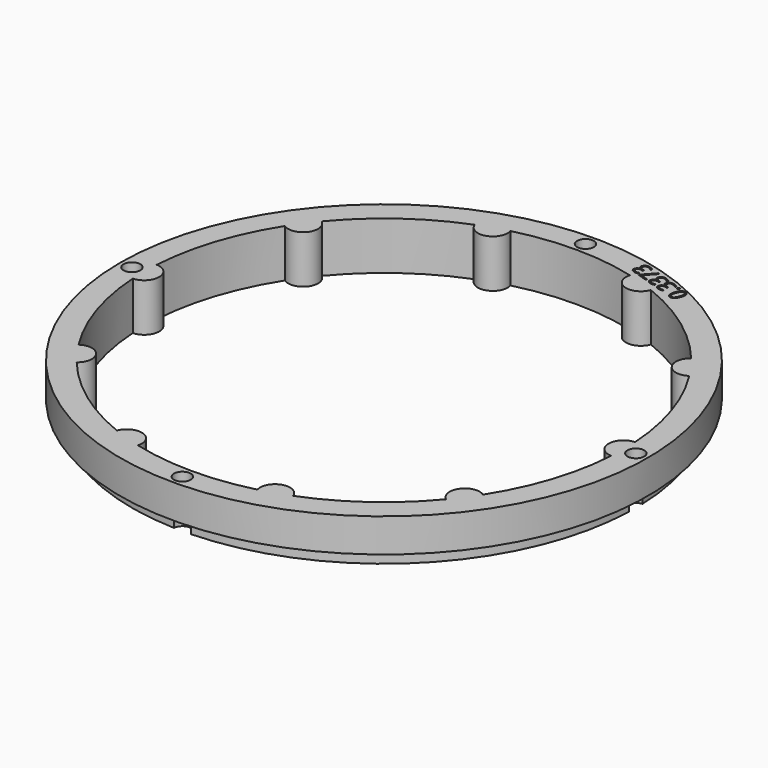
from build123d import *

# Parameters (mm, degrees)
SKETCH118_R             = 55
PAD043_DEPTH            = 10
POLARPATTERN013_COUNT   = 10
SKETCH119_R             = 55
SKETCH119_R_2           = 52.5
POCKET063_DEPTH         = 3
SKETCH120_R             = 1.75
POCKET064_DEPTH         = 321.770146
POCKET064_DEPTH_BACK    = 311.770146
POLARPATTERN014_COUNT   = 4
POCKET071_DEPTH         = 2
BODY007_ROLL_ANGLE      = 90
BODY007_PLACEMENT_ANGLE = -180


with BuildPart() as part:
    # Sketch118 → Pad043 (new body)
    with BuildSketch(Plane.XZ):
        Circle(SKETCH118_R)
        with BuildLine():
            ThreePointArc((49.898009, 3.191978), (-49.999936, -0.080147), (49.907985, -3.031995))
            ThreePointArc((49.898009, 3.191978), (46.88644, 0.075156), (49.907985, -3.031995))
        make_face(mode=Mode.SUBTRACT)
    pad043 = extrude(amount=PAD043_DEPTH)

    # PolarPattern013: Pad043 ×10 about axis
    polarpattern013_axis = Axis((0, 0, 0), (0, -1, 0))
    for i in range(1, POLARPATTERN013_COUNT):
        add(pad043.rotate(polarpattern013_axis, i * 360 / POLARPATTERN013_COUNT))

    # Sketch119 (on DatumPlane) → Pocket063 (cut)
    with BuildSketch(Plane.XZ.offset(10)):
        Circle(SKETCH119_R)
        Circle(SKETCH119_R_2, mode=Mode.SUBTRACT)
    extrude(amount=-POCKET063_DEPTH, mode=Mode.SUBTRACT)

    # Sketch120 (on DatumPlane) → Pocket064 (cut, two sides)
    with BuildSketch(Plane.XZ.offset(10)) as pocket064_sk:
        with Locations((52.5, 0)):
            Circle(SKETCH120_R)
    pocket064 = extrude(amount=-POCKET064_DEPTH, mode=Mode.SUBTRACT) + extrude(pocket064_sk.sketch, amount=POCKET064_DEPTH_BACK, mode=Mode.SUBTRACT)

    # PolarPattern014: Pocket064 ×4 about axis
    polarpattern014_axis = Axis((0, -10, 0), (0, -1, 0))
    for i in range(1, POLARPATTERN014_COUNT):
        add(pocket064.rotate(polarpattern014_axis, i * 360 / POLARPATTERN014_COUNT), mode=Mode.SUBTRACT)

    # Sketch133 (on Face2 of PolarPattern014) → Pocket071 (cut)
    with BuildSketch(Plane(origin=(0, 0, 0), x_dir=(1, 0, 0), z_dir=(0, 1, 0))):
        with BuildLine():
            add(Edge.make_bspline(
                [(-21.9481, -48.248), (-22.0611, -48.5958), (-22.2027, -48.8523)],
                knots=[0, 0, 0, 1, 1, 1], degree=2))
            add(Edge.make_bspline(
                [(-22.2027, -48.8523), (-22.3442, -49.1087), (-22.5189, -49.2616)],
                knots=[0, 0, 0, 1, 1, 1], degree=2))
            add(Edge.make_bspline(
                [(-22.5189, -49.2616), (-22.6935, -49.4143), (-22.9049, -49.4547)],
                knots=[0, 0, 0, 1, 1, 1], degree=2))
            add(Edge.make_bspline(
                [(-22.9049, -49.4547), (-23.1163, -49.4951), (-23.3678, -49.4134)],
                knots=[0, 0, 0, 1, 1, 1], degree=2))
            add(Edge.make_bspline(
                [(-23.3678, -49.4134), (-23.6856, -49.3101), (-23.8368, -49.0687)],
                knots=[0, 0, 0, 1, 1, 1], degree=2))
            add(Edge.make_bspline(
                [(-23.8368, -49.0687), (-23.9879, -48.8274), (-23.9833, -48.4649)],
                knots=[0, 0, 0, 1, 1, 1], degree=2))
            add(Edge.make_bspline(
                [(-23.9833, -48.4649), (-23.9787, -48.1024), (-23.8275, -47.6374)],
                knots=[0, 0, 0, 1, 1, 1], degree=2))
            add(Edge.make_bspline(
                [(-23.8275, -47.6374), (-23.679, -47.1803), (-23.4795, -46.8811)],
                knots=[0, 0, 0, 1, 1, 1], degree=2))
            add(Edge.make_bspline(
                [(-23.4795, -46.8811), (-23.2799, -46.582), (-23.0158, -46.4724)],
                knots=[0, 0, 0, 1, 1, 1], degree=2))
            add(Edge.make_bspline(
                [(-23.0158, -46.4724), (-22.7516, -46.3626), (-22.4124, -46.4728)],
                knots=[0, 0, 0, 1, 1, 1], degree=2))
            add(Edge.make_bspline(
                [(-22.4124, -46.4728), (-22.0907, -46.5774), (-21.939, -46.8201)],
                knots=[0, 0, 0, 1, 1, 1], degree=2))
            add(Edge.make_bspline(
                [(-21.939, -46.8201), (-21.7872, -47.0627), (-21.7928, -47.4248)],
                knots=[0, 0, 0, 1, 1, 1], degree=2))
            add(Edge.make_bspline(
                [(-21.7928, -47.4248), (-21.7983, -47.787), (-21.9481, -48.248)],
                knots=[0, 0, 0, 1, 1, 1], degree=2))
        make_face()
        with BuildLine():
            add(Edge.make_bspline(
                [(-23.502, -47.7432), (-23.6316, -48.142), (-23.6575, -48.4276)],
                knots=[0, 0, 0, 1, 1, 1], degree=2))
            add(Edge.make_bspline(
                [(-23.6575, -48.4276), (-23.6835, -48.713), (-23.5909, -48.889)],
                knots=[0, 0, 0, 1, 1, 1], degree=2))
            add(Edge.make_bspline(
                [(-23.5909, -48.889), (-23.4982, -49.0649), (-23.2779, -49.1365)],
                knots=[0, 0, 0, 1, 1, 1], degree=2))
            add(Edge.make_bspline(
                [(-23.2779, -49.1365), (-23.0576, -49.2081), (-22.8796, -49.1212)],
                knots=[0, 0, 0, 1, 1, 1], degree=2))
            add(Edge.make_bspline(
                [(-22.8796, -49.1212), (-22.7015, -49.0343), (-22.5538, -48.7884)],
                knots=[0, 0, 0, 1, 1, 1], degree=2))
            add(Edge.make_bspline(
                [(-22.5538, -48.7884), (-22.4059, -48.5424), (-22.2757, -48.1416)],
                knots=[0, 0, 0, 1, 1, 1], degree=2))
            add(Edge.make_bspline(
                [(-22.2757, -48.1416), (-22.148, -47.7487), (-22.1224, -47.4643)],
                knots=[0, 0, 0, 1, 1, 1], degree=2))
            add(Edge.make_bspline(
                [(-22.1224, -47.4643), (-22.0968, -47.1798), (-22.1878, -47.0022)],
                knots=[0, 0, 0, 1, 1, 1], degree=2))
            add(Edge.make_bspline(
                [(-22.1878, -47.0022), (-22.2788, -46.8245), (-22.503, -46.7516)],
                knots=[0, 0, 0, 1, 1, 1], degree=2))
            add(Edge.make_bspline(
                [(-22.503, -46.7516), (-22.7272, -46.6788), (-22.9053, -46.7691)],
                knots=[0, 0, 0, 1, 1, 1], degree=2))
            add(Edge.make_bspline(
                [(-22.9053, -46.7691), (-23.0833, -46.8592), (-23.2289, -47.1048)],
                knots=[0, 0, 0, 1, 1, 1], degree=2))
            add(Edge.make_bspline(
                [(-23.2289, -47.1048), (-23.3743, -47.3502), (-23.502, -47.7432)],
                knots=[0, 0, 0, 1, 1, 1], degree=2))
        make_face(mode=Mode.SUBTRACT)
        with BuildLine():
            add(Edge.make_bspline(
                [(-21.8498, -49.6175), (-21.8055, -49.481), (-21.7205, -49.4451)],
                knots=[0, 0, 0, 1, 1, 1], degree=2))
            add(Edge.make_bspline(
                [(-21.7205, -49.4451), (-21.6355, -49.4091), (-21.54, -49.4401)],
                knots=[0, 0, 0, 1, 1, 1], degree=2))
            add(Edge.make_bspline(
                [(-21.54, -49.4401), (-21.4405, -49.4724), (-21.391, -49.5522)],
                knots=[0, 0, 0, 1, 1, 1], degree=2))
            add(Edge.make_bspline(
                [(-21.391, -49.5522), (-21.3414, -49.6318), (-21.3858, -49.7683)],
                knots=[0, 0, 0, 1, 1, 1], degree=2))
            add(Edge.make_bspline(
                [(-21.3858, -49.7683), (-21.4295, -49.9028), (-21.5177, -49.9421)],
                knots=[0, 0, 0, 1, 1, 1], degree=2))
            add(Edge.make_bspline(
                [(-21.5177, -49.9421), (-21.6059, -49.9813), (-21.7053, -49.9489)],
                knots=[0, 0, 0, 1, 1, 1], degree=2))
            add(Edge.make_bspline(
                [(-21.7053, -49.9489), (-21.8008, -49.9179), (-21.8472, -49.835)],
                knots=[0, 0, 0, 1, 1, 1], degree=2))
            add(Edge.make_bspline(
                [(-21.8472, -49.835), (-21.8935, -49.752), (-21.8498, -49.6175)],
                knots=[0, 0, 0, 1, 1, 1], degree=2))
        make_face()
        with BuildLine():
            add(Edge.make_bspline(
                [(-18.495, -48.5306), (-18.5574, -48.7228), (-18.6774, -48.8399)],
                knots=[0, 0, 0, 1, 1, 1], degree=2))
            add(Edge.make_bspline(
                [(-18.6774, -48.8399), (-18.7973, -48.9569), (-18.9589, -49.0032)],
                knots=[0, 0, 0, 1, 1, 1], degree=2))
            add(Edge.make_bspline(
                [(-18.9589, -49.0032), (-19.1205, -49.0492), (-19.311321, -49.02632)],
                knots=[0, 0, 0, 1, 1, 1], degree=2))
            Line((-19.311321, -49.02632), (-19.3164, -49.0419))
            add(Edge.make_bspline(
                [(-19.3164, -49.0419), (-18.9911, -49.195), (-18.8777, -49.4262)],
                knots=[0, 0, 0, 1, 1, 1], degree=2))
            add(Edge.make_bspline(
                [(-18.8777, -49.4262), (-18.7641, -49.6573), (-18.8567, -49.9424)],
                knots=[0, 0, 0, 1, 1, 1], degree=2))
            add(Edge.make_bspline(
                [(-18.8567, -49.9424), (-18.9373, -50.1904), (-19.1155, -50.344)],
                knots=[0, 0, 0, 1, 1, 1], degree=2))
            add(Edge.make_bspline(
                [(-19.1155, -50.344), (-19.2936, -50.4976), (-19.5677, -50.5284)],
                knots=[0, 0, 0, 1, 1, 1], degree=2))
            add(Edge.make_bspline(
                [(-19.5677, -50.5284), (-19.8417, -50.5591), (-20.214, -50.4381)],
                knots=[0, 0, 0, 1, 1, 1], degree=2))
            add(Edge.make_bspline(
                [(-20.214, -50.4381), (-20.4402, -50.3646), (-20.6206, -50.2661)],
                knots=[0, 0, 0, 1, 1, 1], degree=2))
            add(Edge.make_bspline(
                [(-20.6206, -50.2661), (-20.8008, -50.1677), (-20.949059, -50.026835)],
                knots=[0, 0, 0, 1, 1, 1], degree=2))
            Line((-20.949059, -50.026835), (-20.8502, -49.7227))
            add(Edge.make_bspline(
                [(-20.8502, -49.7227), (-20.7013, -49.8681), (-20.5089, -49.9856)],
                knots=[0, 0, 0, 1, 1, 1], degree=2))
            add(Edge.make_bspline(
                [(-20.5089, -49.9856), (-20.3164, -50.1031), (-20.1215, -50.1664)],
                knots=[0, 0, 0, 1, 1, 1], degree=2))
            add(Edge.make_bspline(
                [(-20.1215, -50.1664), (-19.7315, -50.2931), (-19.5076, -50.1942)],
                knots=[0, 0, 0, 1, 1, 1], degree=2))
            add(Edge.make_bspline(
                [(-19.5076, -50.1942), (-19.2836, -50.0952), (-19.196, -49.8258)],
                knots=[0, 0, 0, 1, 1, 1], degree=2))
            add(Edge.make_bspline(
                [(-19.196, -49.8258), (-19.1357, -49.6402), (-19.1952, -49.4946)],
                knots=[0, 0, 0, 1, 1, 1], degree=2))
            add(Edge.make_bspline(
                [(-19.1952, -49.4946), (-19.2545, -49.349), (-19.4175, -49.2367)],
                knots=[0, 0, 0, 1, 1, 1], degree=2))
            add(Edge.make_bspline(
                [(-19.4175, -49.2367), (-19.5803, -49.1243), (-19.833702, -49.041954)],
                knots=[0, 0, 0, 1, 1, 1], degree=2))
            Line((-19.833702, -49.041954), (-20.118343, -48.949469))
            Line((-20.118343, -48.949469), (-20.028391, -48.672626))
            Line((-20.028391, -48.672626), (-19.7418, -48.7657))
            add(Edge.make_bspline(
                [(-19.7418, -48.7657), (-19.5098, -48.8411), (-19.3256, -48.8249)],
                knots=[0, 0, 0, 1, 1, 1], degree=2))
            add(Edge.make_bspline(
                [(-19.3256, -48.8249), (-19.1414, -48.8086), (-19.0162, -48.7114)],
                knots=[0, 0, 0, 1, 1, 1], degree=2))
            add(Edge.make_bspline(
                [(-19.0162, -48.7114), (-18.8907, -48.6142), (-18.8352, -48.4432)],
                knots=[0, 0, 0, 1, 1, 1], degree=2))
            add(Edge.make_bspline(
                [(-18.8352, -48.4432), (-18.7643, -48.2251), (-18.8699, -48.0593)],
                knots=[0, 0, 0, 1, 1, 1], degree=2))
            add(Edge.make_bspline(
                [(-18.8699, -48.0593), (-18.9756, -47.8935), (-19.2232, -47.813)],
                knots=[0, 0, 0, 1, 1, 1], degree=2))
            add(Edge.make_bspline(
                [(-19.2232, -47.813), (-19.3752, -47.7636), (-19.5101, -47.7543)],
                knots=[0, 0, 0, 1, 1, 1], degree=2))
            add(Edge.make_bspline(
                [(-19.5101, -47.7543), (-19.6451, -47.7449), (-19.772, -47.764)],
                knots=[0, 0, 0, 1, 1, 1], degree=2))
            add(Edge.make_bspline(
                [(-19.772, -47.764), (-19.8989, -47.7831), (-20.031495, -47.819796)],
                knots=[0, 0, 0, 1, 1, 1], degree=2))
            Line((-20.031495, -47.819796), (-20.123, -47.5443))
            add(Edge.make_bspline(
                [(-20.123, -47.5443), (-19.9278, -47.4741), (-19.6751, -47.4592)],
                knots=[0, 0, 0, 1, 1, 1], degree=2))
            add(Edge.make_bspline(
                [(-19.6751, -47.4592), (-19.4224, -47.4444), (-19.1377, -47.5369)],
                knots=[0, 0, 0, 1, 1, 1], degree=2))
            add(Edge.make_bspline(
                [(-19.1377, -47.5369), (-18.701, -47.6787), (-18.5477, -47.9497)],
                knots=[0, 0, 0, 1, 1, 1], degree=2))
            add(Edge.make_bspline(
                [(-18.5477, -47.9497), (-18.3943, -48.2207), (-18.495, -48.5306)],
                knots=[0, 0, 0, 1, 1, 1], degree=2))
        make_face()
        with BuildLine():
            add(Edge.make_bspline(
                [(-16.2158, -49.2711), (-16.2782, -49.4633), (-16.3982, -49.5804)],
                knots=[0, 0, 0, 1, 1, 1], degree=2))
            add(Edge.make_bspline(
                [(-16.3982, -49.5804), (-16.5181, -49.6975), (-16.6797, -49.7437)],
                knots=[0, 0, 0, 1, 1, 1], degree=2))
            add(Edge.make_bspline(
                [(-16.6797, -49.7437), (-16.8413, -49.7898), (-17.032113, -49.76688)],
                knots=[0, 0, 0, 1, 1, 1], degree=2))
            Line((-17.032113, -49.76688), (-17.0372, -49.7825))
            add(Edge.make_bspline(
                [(-17.0372, -49.7825), (-16.7119, -49.9356), (-16.5985, -50.1667)],
                knots=[0, 0, 0, 1, 1, 1], degree=2))
            add(Edge.make_bspline(
                [(-16.5985, -50.1667), (-16.4849, -50.3979), (-16.5775, -50.6829)],
                knots=[0, 0, 0, 1, 1, 1], degree=2))
            add(Edge.make_bspline(
                [(-16.5775, -50.6829), (-16.6581, -50.9309), (-16.8363, -51.0845)],
                knots=[0, 0, 0, 1, 1, 1], degree=2))
            add(Edge.make_bspline(
                [(-16.8363, -51.0845), (-17.0144, -51.2382), (-17.2885, -51.2689)],
                knots=[0, 0, 0, 1, 1, 1], degree=2))
            add(Edge.make_bspline(
                [(-17.2885, -51.2689), (-17.5625, -51.2996), (-17.9348, -51.1786)],
                knots=[0, 0, 0, 1, 1, 1], degree=2))
            add(Edge.make_bspline(
                [(-17.9348, -51.1786), (-18.161, -51.1052), (-18.3414, -51.0066)],
                knots=[0, 0, 0, 1, 1, 1], degree=2))
            add(Edge.make_bspline(
                [(-18.3414, -51.0066), (-18.5216, -50.9082), (-18.669851, -50.767394)],
                knots=[0, 0, 0, 1, 1, 1], degree=2))
            Line((-18.669851, -50.767394), (-18.571, -50.4633))
            add(Edge.make_bspline(
                [(-18.571, -50.4633), (-18.4221, -50.6086), (-18.2297, -50.7262)],
                knots=[0, 0, 0, 1, 1, 1], degree=2))
            add(Edge.make_bspline(
                [(-18.2297, -50.7262), (-18.0372, -50.8436), (-17.8423, -50.907)],
                knots=[0, 0, 0, 1, 1, 1], degree=2))
            add(Edge.make_bspline(
                [(-17.8423, -50.907), (-17.4523, -51.0337), (-17.2284, -50.9347)],
                knots=[0, 0, 0, 1, 1, 1], degree=2))
            add(Edge.make_bspline(
                [(-17.2284, -50.9347), (-17.0044, -50.8358), (-16.9168, -50.5663)],
                knots=[0, 0, 0, 1, 1, 1], degree=2))
            add(Edge.make_bspline(
                [(-16.9168, -50.5663), (-16.8565, -50.3807), (-16.916, -50.2351)],
                knots=[0, 0, 0, 1, 1, 1], degree=2))
            add(Edge.make_bspline(
                [(-16.916, -50.2351), (-16.9753, -50.0895), (-17.1383, -49.9772)],
                knots=[0, 0, 0, 1, 1, 1], degree=2))
            add(Edge.make_bspline(
                [(-17.1383, -49.9772), (-17.301, -49.8649), (-17.554494, -49.782514)],
                knots=[0, 0, 0, 1, 1, 1], degree=2))
            Line((-17.554494, -49.782514), (-17.839135, -49.690029))
            Line((-17.839135, -49.690029), (-17.749183, -49.413186))
            Line((-17.749183, -49.413186), (-17.4626, -49.5063))
            add(Edge.make_bspline(
                [(-17.4626, -49.5063), (-17.2306, -49.5817), (-17.0464, -49.5655)],
                knots=[0, 0, 0, 1, 1, 1], degree=2))
            add(Edge.make_bspline(
                [(-17.0464, -49.5655), (-16.8622, -49.5492), (-16.737, -49.452)],
                knots=[0, 0, 0, 1, 1, 1], degree=2))
            add(Edge.make_bspline(
                [(-16.737, -49.452), (-16.6115, -49.3548), (-16.556, -49.1837)],
                knots=[0, 0, 0, 1, 1, 1], degree=2))
            add(Edge.make_bspline(
                [(-16.556, -49.1837), (-16.4851, -48.9656), (-16.5907, -48.7998)],
                knots=[0, 0, 0, 1, 1, 1], degree=2))
            add(Edge.make_bspline(
                [(-16.5907, -48.7998), (-16.6964, -48.634), (-16.944, -48.5536)],
                knots=[0, 0, 0, 1, 1, 1], degree=2))
            add(Edge.make_bspline(
                [(-16.944, -48.5536), (-17.096, -48.5042), (-17.2309, -48.4948)],
                knots=[0, 0, 0, 1, 1, 1], degree=2))
            add(Edge.make_bspline(
                [(-17.2309, -48.4948), (-17.3658, -48.4855), (-17.4928, -48.5046)],
                knots=[0, 0, 0, 1, 1, 1], degree=2))
            add(Edge.make_bspline(
                [(-17.4928, -48.5046), (-17.6197, -48.5237), (-17.752286, -48.560355)],
                knots=[0, 0, 0, 1, 1, 1], degree=2))
            Line((-17.752286, -48.560355), (-17.8438, -48.2849))
            add(Edge.make_bspline(
                [(-17.8438, -48.2849), (-17.6486, -48.2147), (-17.3959, -48.1998)],
                knots=[0, 0, 0, 1, 1, 1], degree=2))
            add(Edge.make_bspline(
                [(-17.3959, -48.1998), (-17.1432, -48.1849), (-16.8585, -48.2774)],
                knots=[0, 0, 0, 1, 1, 1], degree=2))
            add(Edge.make_bspline(
                [(-16.8585, -48.2774), (-16.4218, -48.4193), (-16.2685, -48.6903)],
                knots=[0, 0, 0, 1, 1, 1], degree=2))
            add(Edge.make_bspline(
                [(-16.2685, -48.6903), (-16.1151, -48.9613), (-16.2158, -49.2711)],
                knots=[0, 0, 0, 1, 1, 1], degree=2))
        make_face()
        Polygon((-16.04111, -51.745676), (-14.040587, -49.568923), (-15.594416, -49.064053), (-15.498129, -48.767715), (-13.597273, -49.38534), (-13.678356, -49.634889), (-15.686283, -51.860966), align=None)
        with BuildLine():
            add(Edge.make_bspline(
                [(-11.6574, -50.7522), (-11.7198, -50.9445), (-11.8398, -51.0615)],
                knots=[0, 0, 0, 1, 1, 1], degree=2))
            add(Edge.make_bspline(
                [(-11.8398, -51.0615), (-11.9597, -51.1786), (-12.1213, -51.2248)],
                knots=[0, 0, 0, 1, 1, 1], degree=2))
            add(Edge.make_bspline(
                [(-12.1213, -51.2248), (-12.2828, -51.2709), (-12.473696, -51.247999)],
                knots=[0, 0, 0, 1, 1, 1], degree=2))
            Line((-12.473696, -51.247999), (-12.4788, -51.2636))
            add(Edge.make_bspline(
                [(-12.4788, -51.2636), (-12.1535, -51.4167), (-12.04, -51.6478)],
                knots=[0, 0, 0, 1, 1, 1], degree=2))
            add(Edge.make_bspline(
                [(-12.04, -51.6478), (-11.9265, -51.879), (-12.0191, -52.164)],
                knots=[0, 0, 0, 1, 1, 1], degree=2))
            add(Edge.make_bspline(
                [(-12.0191, -52.164), (-12.0997, -52.412), (-12.2779, -52.5656)],
                knots=[0, 0, 0, 1, 1, 1], degree=2))
            add(Edge.make_bspline(
                [(-12.2779, -52.5656), (-12.456, -52.7193), (-12.7301, -52.7501)],
                knots=[0, 0, 0, 1, 1, 1], degree=2))
            add(Edge.make_bspline(
                [(-12.7301, -52.7501), (-13.0041, -52.7808), (-13.3764, -52.6598)],
                knots=[0, 0, 0, 1, 1, 1], degree=2))
            add(Edge.make_bspline(
                [(-13.3764, -52.6598), (-13.6026, -52.5863), (-13.7829, -52.4877)],
                knots=[0, 0, 0, 1, 1, 1], degree=2))
            add(Edge.make_bspline(
                [(-13.7829, -52.4877), (-13.9632, -52.3894), (-14.111434, -52.248514)],
                knots=[0, 0, 0, 1, 1, 1], degree=2))
            Line((-14.111434, -52.248514), (-14.0126, -51.9444))
            add(Edge.make_bspline(
                [(-14.0126, -51.9444), (-13.8637, -52.0898), (-13.6713, -52.2073)],
                knots=[0, 0, 0, 1, 1, 1], degree=2))
            add(Edge.make_bspline(
                [(-13.6713, -52.2073), (-13.4788, -52.3247), (-13.2838, -52.3881)],
                knots=[0, 0, 0, 1, 1, 1], degree=2))
            add(Edge.make_bspline(
                [(-13.2838, -52.3881), (-12.8939, -52.5148), (-12.6699, -52.4158)],
                knots=[0, 0, 0, 1, 1, 1], degree=2))
            add(Edge.make_bspline(
                [(-12.6699, -52.4158), (-12.446, -52.3169), (-12.3584, -52.0475)],
                knots=[0, 0, 0, 1, 1, 1], degree=2))
            add(Edge.make_bspline(
                [(-12.3584, -52.0475), (-12.2981, -51.8619), (-12.3576, -51.7162)],
                knots=[0, 0, 0, 1, 1, 1], degree=2))
            add(Edge.make_bspline(
                [(-12.3576, -51.7162), (-12.4169, -51.5707), (-12.5798, -51.4584)],
                knots=[0, 0, 0, 1, 1, 1], degree=2))
            add(Edge.make_bspline(
                [(-12.5798, -51.4584), (-12.7426, -51.346), (-12.996077, -51.263633)],
                knots=[0, 0, 0, 1, 1, 1], degree=2))
            Line((-12.996077, -51.263633), (-13.280718, -51.171148))
            Line((-13.280718, -51.171148), (-13.190766, -50.894305))
            Line((-13.190766, -50.894305), (-12.9042, -50.9874))
            add(Edge.make_bspline(
                [(-12.9042, -50.9874), (-12.6722, -51.0628), (-12.488, -51.0466)],
                knots=[0, 0, 0, 1, 1, 1], degree=2))
            add(Edge.make_bspline(
                [(-12.488, -51.0466), (-12.3038, -51.0303), (-12.1785, -50.9331)],
                knots=[0, 0, 0, 1, 1, 1], degree=2))
            add(Edge.make_bspline(
                [(-12.1785, -50.9331), (-12.0531, -50.8359), (-11.9975, -50.6648)],
                knots=[0, 0, 0, 1, 1, 1], degree=2))
            add(Edge.make_bspline(
                [(-11.9975, -50.6648), (-11.9267, -50.4467), (-12.0323, -50.2809)],
                knots=[0, 0, 0, 1, 1, 1], degree=2))
            add(Edge.make_bspline(
                [(-12.0323, -50.2809), (-12.1379, -50.1151), (-12.3855, -50.0347)],
                knots=[0, 0, 0, 1, 1, 1], degree=2))
            add(Edge.make_bspline(
                [(-12.3855, -50.0347), (-12.5376, -49.9853), (-12.6725, -49.9759)],
                knots=[0, 0, 0, 1, 1, 1], degree=2))
            add(Edge.make_bspline(
                [(-12.6725, -49.9759), (-12.8074, -49.9666), (-12.9343, -49.9857)],
                knots=[0, 0, 0, 1, 1, 1], degree=2))
            add(Edge.make_bspline(
                [(-12.9343, -49.9857), (-13.0613, -50.0048), (-13.19387, -50.041475)],
                knots=[0, 0, 0, 1, 1, 1], degree=2))
            Line((-13.19387, -50.041475), (-13.2854, -49.766))
            add(Edge.make_bspline(
                [(-13.2854, -49.766), (-13.0902, -49.6958), (-12.8375, -49.6809)],
                knots=[0, 0, 0, 1, 1, 1], degree=2))
            add(Edge.make_bspline(
                [(-12.8375, -49.6809), (-12.5848, -49.666), (-12.3001, -49.7585)],
                knots=[0, 0, 0, 1, 1, 1], degree=2))
            add(Edge.make_bspline(
                [(-12.3001, -49.7585), (-11.8634, -49.9004), (-11.71, -50.1714)],
                knots=[0, 0, 0, 1, 1, 1], degree=2))
            add(Edge.make_bspline(
                [(-11.71, -50.1714), (-11.5567, -50.4424), (-11.6574, -50.7522)],
                knots=[0, 0, 0, 1, 1, 1], degree=2))
        make_face()
    extrude(amount=-POCKET071_DEPTH, mode=Mode.SUBTRACT)


with BuildPart() as part_1:
    # Body007 roll: moved
    add(part.part.rotate(Axis((0, 0, 0), (1, 0, 0)), BODY007_ROLL_ANGLE))


with BuildPart() as part_2:
    # Body007 placement: moved
    add(part_1.part.moved(Location((-1.52, 0, 96))).rotate(Axis((-1.52, 0, 96), (0, 0, 1)), BODY007_PLACEMENT_ANGLE))


solid = part_2.part
